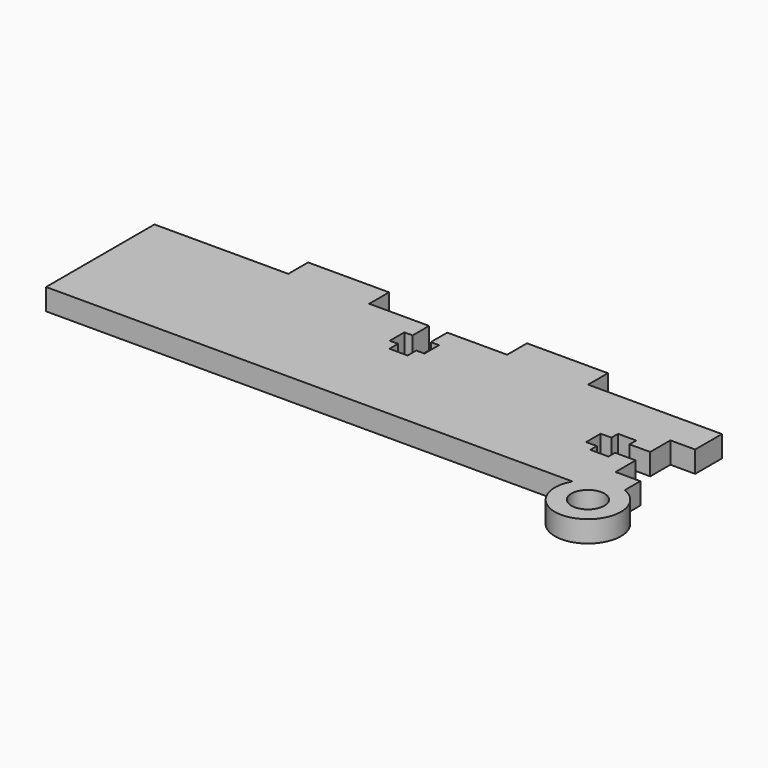
from build123d import *

# Parameters (mm, degrees)
F0_R     = 2
F1_DEPTH = 2.6


with BuildPart() as f1:
    # F0 (on Top) → F1 (new body)
    with BuildSketch(Plane.XY):
        with BuildLine():
            Line((34.35, 4.15), (34.35, 8.2))
            Line((34.35, 8.2), (18.15, 8.2))
            Line((18.15, 8.2), (18.15, 11.2))
            Line((18.15, 11.2), (8.35, 11.2))
            Line((8.35, 11.2), (8.35, 8.2))
            Line((8.35, 8.2), (1.1, 8.2))
            Line((1.1, 8.2), (1.1, 5.7))
            Line((1.1, 5.7), (2.1, 5.7))
            Line((2.1, 5.7), (2.1, 3.5))
            Line((2.1, 3.5), (1.1, 3.5))
            Line((1.1, 3.5), (1.1, 2.2))
            Line((1.1, 2.2), (-1.1, 2.2))
            Line((-1.1, 2.2), (-1.1, 3.5))
            Line((-1.1, 3.5), (-2.1, 3.5))
            Line((-2.1, 3.5), (-2.1, 5.7))
            Line((-2.1, 5.7), (-1.1, 5.7))
            Line((-1.1, 5.7), (-1.1, 8.2))
            Line((-1.1, 8.2), (-8.35, 8.2))
            Line((-8.35, 8.2), (-8.35, 11.2))
            Line((-8.35, 11.2), (-18.15, 11.2))
            Line((-18.15, 11.2), (-18.15, 8.2))
            Line((-18.15, 8.2), (-34.35, 8.2))
            Line((-34.35, 8.2), (-34.35, -8.2))
            Line((-34.35, -8.2), (29.385898, -8.2))
            ThreePointArc((29.385898, -8.2), (34.15147, -13.982351), (34.35, -6.491901))
            Line((34.35, -6.491901), (34.35, -4.15))
            Line((34.35, -4.15), (31.35, -4.15))
            Line((31.35, -4.15), (31.35, -1.1))
            Line((31.35, -1.1), (28.85, -1.1))
            Line((28.85, -1.1), (28.85, -2.094273))
            Line((28.85, -2.094273), (26.65, -2.094273))
            Line((26.65, -2.094273), (26.65, -1.1))
            Line((26.65, -1.1), (25.35, -1.1))
            Line((25.35, -1.1), (25.35, 1.1))
            Line((25.35, 1.1), (26.65, 1.1))
            Line((26.65, 1.1), (26.65, 2.105727))
            Line((26.65, 2.105727), (28.85, 2.105727))
            Line((28.85, 2.105727), (28.85, 1.1))
            Line((28.85, 1.1), (31.35, 1.1))
            Line((31.35, 1.1), (31.35, 4.15))
            Line((31.35, 4.15), (34.35, 4.15))
        make_face()
        with Locations((32.85, -10.2)):
            Circle(F0_R, mode=Mode.SUBTRACT)
    extrude(amount=F1_DEPTH)


solid = f1.part
